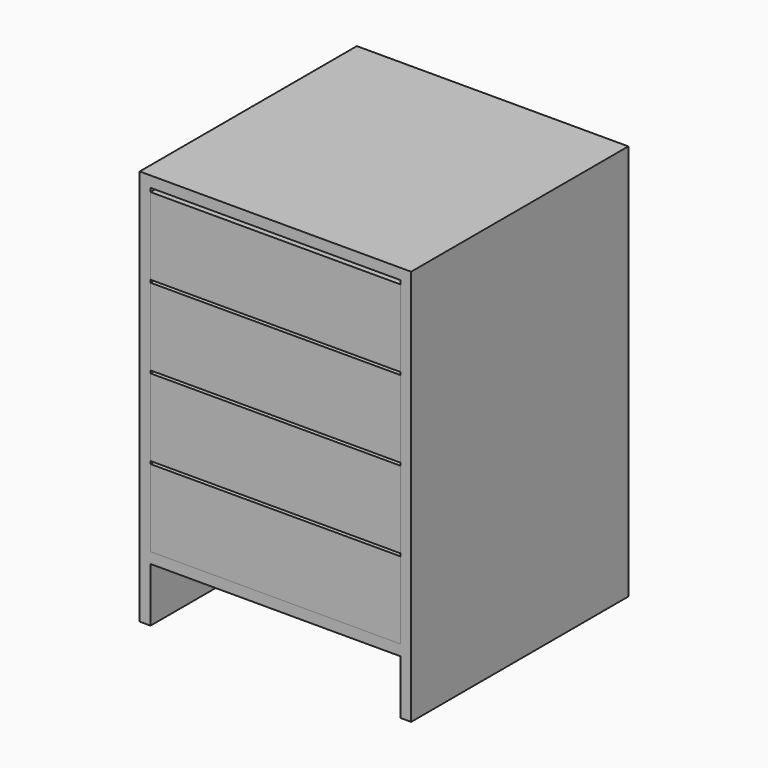
from build123d import *

# Parameters (mm, degrees)
F0_W     = 460
F0_H     = 20
F1_DEPTH = 500
F2_W     = 460
F2_H     = 142
F3_DEPTH = 480
F4_T     = -20
F4_2_T   = -20
F4_3_T   = -20
F4_4_T   = -20


with BuildPart() as f1:
    # F0 (on Front) → F1 (new body)
    with BuildSketch(Plane.XZ):
        Polygon((-18.1939336658, 664.4011205435), (-38.1939336658, 664.4011205435), (-38.1939336658, -45.5988794565), (-18.1939336658, -45.5988794565), (-18.1939336658, 54.4011205435), (-18.1939336658, 74.4011205435), align=None)
        Polygon((-38.1939336658, 684.4011205435), (-38.1939336658, 664.4011205435), (-18.1939336658, 664.4011205435), (441.8060663342, 664.4011205435), (461.8060663342, 664.4011205435), (461.8060663342, 684.4011205435), align=None)
        with Locations((211.8060663342, 64.4011205435)):
            Rectangle(F0_W, F0_H)
        Polygon((461.8060663342, 664.4011205435), (441.8060663342, 664.4011205435), (441.8060663342, 74.4011205435), (441.8060663342, 54.4011205435), (441.8060663342, -45.5988794565), (461.8060663342, -45.5988794565), align=None)
    extrude(amount=F1_DEPTH)


with BuildPart() as f3:
    # F2 (on face) → F3 (new body)
    with BuildSketch(Plane.XZ.offset(500)):
        with Locations((211.8060663342, 145.4011205435)):
            Rectangle(F2_W, F2_H)
        with Locations((211.8060663342, 145.4011205435)):
            Rectangle(F2_W, F2_H)
    extrude(amount=-F3_DEPTH)

    # F4#4
    f4_4_openings = [f3.faces().sort_by_distance(p)[0] for p in [
        (211.806066, -260, 216.401121),
    ]]
    offset(amount=F4_4_T, openings=f4_4_openings)


with BuildPart() as f3b:
    # F2 (on face) → F3, piece 2 (new body)
    with BuildSketch(Plane.XZ.offset(500)):
        with Locations((211.8060663342, 292.4011251926)):
            Rectangle(F2_W, F2_H)
        with Locations((211.8060663342, 292.4011251926)):
            Rectangle(F2_W, F2_H)
    extrude(amount=-F3_DEPTH)

    # F4#3
    f4_3_openings = [f3b.faces().sort_by_distance(p)[0] for p in [
        (211.806066, -260, 363.401125),
    ]]
    offset(amount=F4_3_T, openings=f4_3_openings)


with BuildPart() as f3c:
    # F2 (on face) → F3, piece 3 (new body)
    with BuildSketch(Plane.XZ.offset(500)):
        with Locations((211.8060663342, 439.4011251926)):
            Rectangle(F2_W, F2_H)
        with Locations((211.8060663342, 439.4011251926)):
            Rectangle(F2_W, F2_H)
    extrude(amount=-F3_DEPTH)

    # F4#2
    f4_2_openings = [f3c.faces().sort_by_distance(p)[0] for p in [
        (211.806066, -260, 510.401125),
    ]]
    offset(amount=F4_2_T, openings=f4_2_openings)


with BuildPart() as f3d:
    # F2 (on face) → F3, piece 4 (new body)
    with BuildSketch(Plane.XZ.offset(500)):
        with Locations((211.8060663342, 586.4011249542)):
            Rectangle(F2_W, F2_H)
        with Locations((211.8060663342, 586.4011249542)):
            Rectangle(F2_W, F2_H)
    extrude(amount=-F3_DEPTH)

    # F4
    f4_openings = [f3d.faces().sort_by_distance(p)[0] for p in [
        (211.806066, -260, 657.401125),
    ]]
    offset(amount=F4_T, openings=f4_openings)


solid = Compound([f1.part, f3.part, f3b.part, f3c.part, f3d.part])
